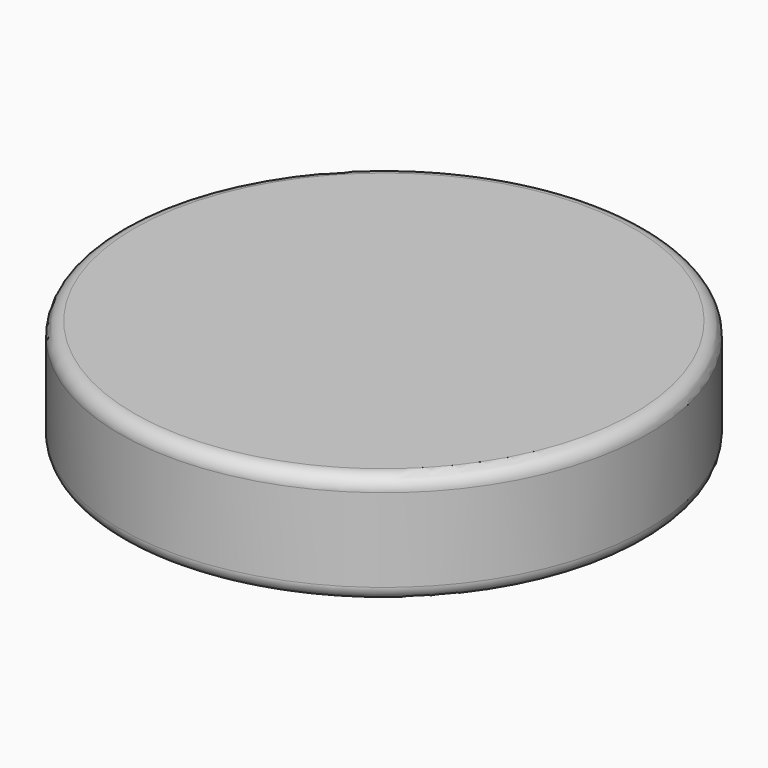
from build123d import *

# Parameters (mm, degrees)
CYLINDER002_R             = 9.5
CYLINDER002_DEPTH         = 2
FILLET003_R               = 0.5
CYLINDER003_R             = 9.5
CYLINDER003_DEPTH         = 2
FILLET002_R               = 0.5
FUSION002_PLACEMENT_ANGLE = 180


with BuildPart() as fillet003:
    # Cylinder002 → Cylinder002 (new body)
    with BuildSketch(Plane.XY.offset(12)):
        Circle(CYLINDER002_R)
    extrude(amount=CYLINDER002_DEPTH)

    # Fillet003
    fillet003_edges = [fillet003.edges().sort_by_distance(p)[0] for p in [
        (-9.5, 0, 14),
    ]]
    fillet(fillet003_edges, radius=FILLET003_R)


with BuildPart() as disc:
    # Cylinder003 → Cylinder003 (new body)
    with BuildSketch(Plane.XY.offset(11)):
        Circle(CYLINDER003_R)
    extrude(amount=CYLINDER003_DEPTH)

    # Fillet002
    fillet002_edges = [disc.edges().sort_by_distance(p)[0] for p in [
        (-9.5, 0, 11),
    ]]
    fillet(fillet002_edges, radius=FILLET002_R)


with BuildPart() as disc_1:
    # Fillet002 placement: moved
    add(disc.part.moved(Location((0, 0, -1))))

    # Fusion002: union Fillet003
    add(fillet003.part)


with BuildPart() as disc_2:
    # Fusion002 placement: moved
    add(disc_1.part.moved(Location((18, 18, 24))).rotate(Axis((18, 18, 24), (0, 1, 0)), FUSION002_PLACEMENT_ANGLE))


solid = disc_2.part
